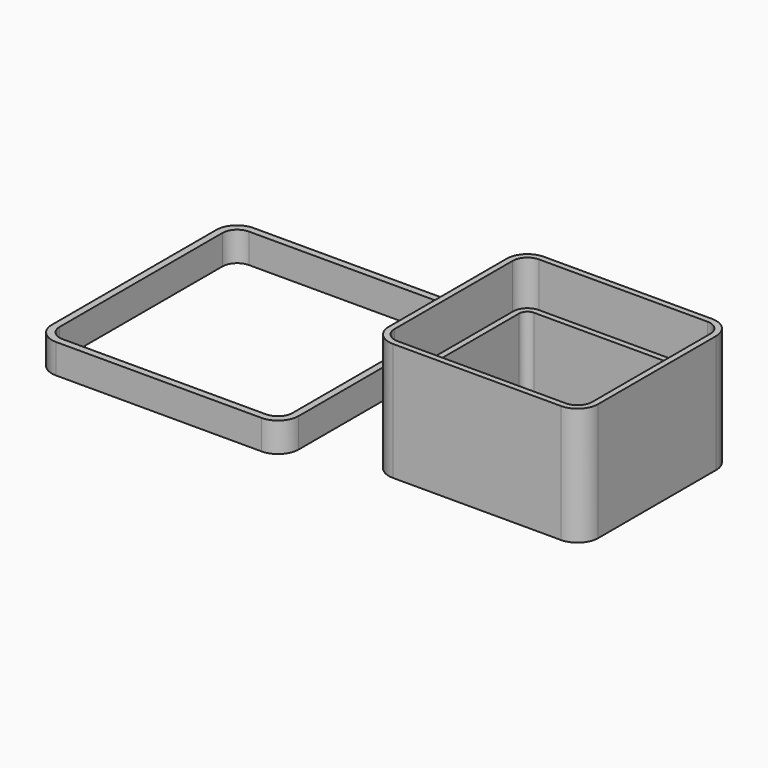
from build123d import *

# Parameters (mm, degrees)
F1_DEPTH = 25
F2_DEPTH = 40
F4_DEPTH = 10


with BuildPart() as f1:
    # F0 (on Top) → F1 (new body)
    with BuildSketch(Plane.XY):
        with BuildLine():
            Line((28.5, 29.8), (-28.5, 29.8))
            ThreePointArc((-28.5, 29.8), (-31.894113, 28.394113), (-33.3, 25))
            Line((-33.3, 25), (-33.3, -25))
            ThreePointArc((-33.3, -25), (-31.894113, -28.394113), (-28.5, -29.8))
            Line((-28.5, -29.8), (28.5, -29.8))
            ThreePointArc((28.5, -29.8), (31.894113, -28.394113), (33.3, -25))
            Line((33.3, -25), (33.3, 25))
            ThreePointArc((33.3, 25), (31.894113, 28.394113), (28.5, 29.8))
        make_face()
        with BuildLine():
            ThreePointArc((-31.3, 25), (-30.479899, 26.979899), (-28.5, 27.8))
            Line((-28.5, 27.8), (28.5, 27.8))
            ThreePointArc((28.5, 27.8), (30.479899, 26.979899), (31.3, 25))
            Line((31.3, 25), (31.3, -25))
            ThreePointArc((31.3, -25), (30.479899, -26.979899), (28.5, -27.8))
            Line((28.5, -27.8), (-28.5, -27.8))
            ThreePointArc((-28.5, -27.8), (-30.479899, -26.979899), (-31.3, -25))
            Line((-31.3, -25), (-31.3, 25))
        make_face(mode=Mode.SUBTRACT)
    extrude(amount=F1_DEPTH)


with BuildPart() as f2:
    # F0 (on Top) → F2 (new body)
    with BuildSketch(Plane.XY):
        with BuildLine():
            Line((28.5, 32), (-28.5, 32))
            ThreePointArc((-28.5, 32), (-33.449747, 29.949747), (-35.5, 25))
            Line((-35.5, 25), (-35.5, -25))
            ThreePointArc((-35.5, -25), (-33.449747, -29.949747), (-28.5, -32))
            Line((-28.5, -32), (28.5, -32))
            ThreePointArc((28.5, -32), (33.449747, -29.949747), (35.5, -25))
            Line((35.5, -25), (35.5, 25))
            ThreePointArc((35.5, 25), (33.449747, 29.949747), (28.5, 32))
        make_face()
        with BuildLine():
            ThreePointArc((-33.5, 25), (-32.035534, 28.535534), (-28.5, 30))
            Line((-28.5, 30), (28.5, 30))
            ThreePointArc((28.5, 30), (32.035534, 28.535534), (33.5, 25))
            Line((33.5, 25), (33.5, -25))
            ThreePointArc((33.5, -25), (32.035534, -28.535534), (28.5, -30))
            Line((28.5, -30), (-28.5, -30))
            ThreePointArc((-28.5, -30), (-32.035534, -28.535534), (-33.5, -25))
            Line((-33.5, -25), (-33.5, 25))
        make_face(mode=Mode.SUBTRACT)
    extrude(amount=F2_DEPTH)


with BuildPart() as f4:
    # F3 (on Top) → F4 (new body)
    with BuildSketch(Plane.XY):
        with BuildLine():
            Line((-65.15, 41.85), (-134.85, 41.85))
            ThreePointArc((-134.85, 41.85), (-139.799747, 39.799747), (-141.85, 34.85))
            Line((-141.85, 34.85), (-141.85, -34.85))
            ThreePointArc((-141.85, -34.85), (-139.799747, -39.799747), (-134.85, -41.85))
            Line((-134.85, -41.85), (-65.15, -41.85))
            ThreePointArc((-65.15, -41.85), (-60.200253, -39.799747), (-58.15, -34.85))
            Line((-58.15, -34.85), (-58.15, 34.85))
            ThreePointArc((-58.15, 34.85), (-60.200253, 39.799747), (-65.15, 41.85))
        make_face()
        with BuildLine():
            ThreePointArc((-139.49, 34.49), (-138.025534, 38.025534), (-134.49, 39.49))
            Line((-134.49, 39.49), (-65.51, 39.49))
            ThreePointArc((-65.51, 39.49), (-61.974466, 38.025534), (-60.51, 34.49))
            Line((-60.51, 34.49), (-60.51, -34.49))
            ThreePointArc((-60.51, -34.49), (-61.974466, -38.025534), (-65.51, -39.49))
            Line((-65.51, -39.49), (-134.49, -39.49))
            ThreePointArc((-134.49, -39.49), (-138.025534, -38.025534), (-139.49, -34.49))
            Line((-139.49, -34.49), (-139.49, 34.49))
        make_face(mode=Mode.SUBTRACT)
    extrude(amount=F4_DEPTH)


solid = Compound([f1.part, f2.part, f4.part])
